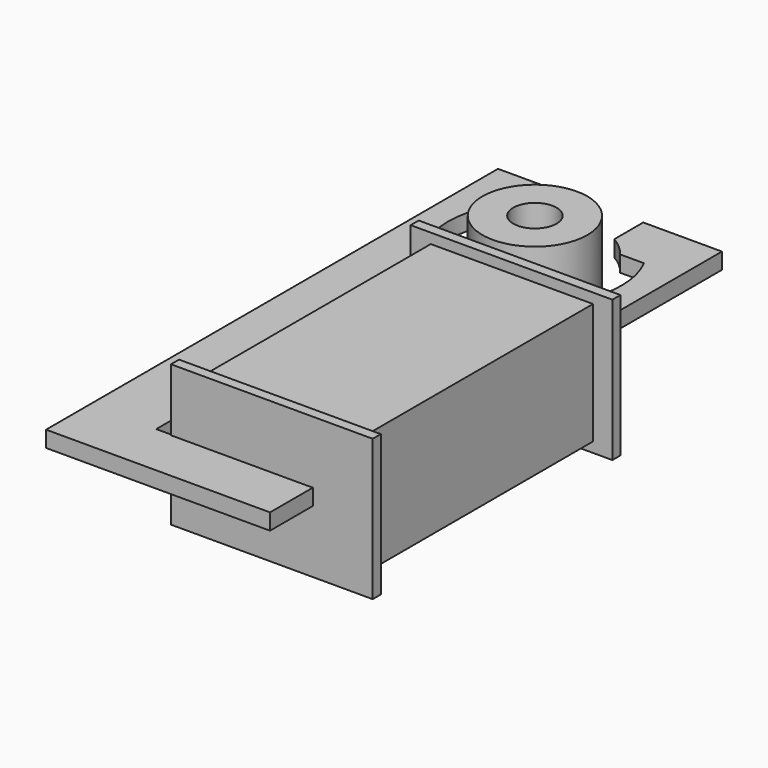
from build123d import *

# Parameters (mm, degrees)
PAD_DEPTH     = 0.4
SKETCH001_W   = 8.04
SKETCH001_H   = 14.4
PAD001_DEPTH  = 3
SKETCH002_W   = 10
SKETCH002_H   = 7
PAD002_DEPTH  = 0.5
SKETCH003_W   = 10
SKETCH003_H   = 7
PAD003_DEPTH  = 0.5
SKETCH004_R   = 2.6
SKETCH004_R_2 = 1.075
PAD004_DEPTH  = 2.05


with BuildPart() as plate:
    # Sketch → Pad (new body, symmetric)
    with BuildSketch(Plane.XY):
        with BuildLine():
            Line((5.55, 4.65), (5.55, -23.35))
            Line((5.55, -23.35), (-5.55, -23.35))
            Line((-5.55, -23.35), (-5.55, 4.65))
            Line((-5.55, 4.65), (-1.65, 4.65))
            Line((-1.65, 4.65), (-1.65, 2.857884))
            ThreePointArc((-1.65, 2.857884), (-2.180056, 2.477369), (-2.624881, 2))
            Line((-3.806573, 2), (-2.624881, 2))
            ThreePointArc((-3.806573, 2), (-4.3, 0), (-3.806573, -2))
            Line((-3.806573, -2), (-2.624881, -2))
            ThreePointArc((-2.624881, -2), (-2.180056, -2.477369), (-1.65, -2.857884))
            Line((-1.65, -2.857884), (-1.65, -7.850596))
            Line((-1.65, -7.850596), (-2.25, -8.610462))
            Line((-2.25, -8.610462), (-2.25, -20.65))
            Line((-2.25, -20.65), (2.25, -20.65))
            Line((2.25, -8.610462), (2.25, -20.65))
            Line((1.668882, -7.874509), (2.25, -8.610462))
            Line((1.668882, -7.874509), (1.668882, -2.846899))
            ThreePointArc((1.668882, -2.846899), (2.188243, -2.47014), (2.624881, -2))
            Line((2.624881, -2), (3.806573, -2))
            ThreePointArc((3.806573, -2), (4.299251, 0.000209), (3.804881, 2))
            Line((2.624881, 2), (3.804881, 2))
            ThreePointArc((2.624881, 2), (2.180056, 2.477369), (1.65, 2.857884))
            Line((1.65, 2.857884), (1.65, 4.65))
            Line((1.65, 4.65), (5.55, 4.65))
        make_face()
    extrude(amount=PAD_DEPTH, both=True)


with BuildPart() as coil:
    # Sketch001 → Pad001 (new body, symmetric)
    with BuildSketch(Plane.XY):
        Rectangle(SKETCH001_W, SKETCH001_H)
    extrude(amount=PAD001_DEPTH, both=True)

    # Sketch002 (on Face3 of Pad001) → Pad002 (join)
    with BuildSketch(Plane.XZ.offset(7.2)):
        with Locations((0.02, 0)):
            Rectangle(SKETCH002_W, SKETCH002_H)
    extrude(amount=PAD002_DEPTH)

    # Sketch003 (on Face11 of Pad002) → Pad003 (join)
    with BuildSketch(Plane(origin=(0, 7.2, 0), x_dir=(-1, 0, 0), z_dir=(0, 1, 0))):
        with Locations((0.02, 0)):
            Rectangle(SKETCH003_W, SKETCH003_H)
    extrude(amount=PAD003_DEPTH)


with BuildPart() as coil_1:
    # Body001 placement: moved
    add(coil.part.moved(Location((3.5, -13, 0))))


with BuildPart() as magnet:
    # Sketch004 → Pad004 (new body, symmetric)
    with BuildSketch(Plane.XY):
        Circle(SKETCH004_R)
        Circle(SKETCH004_R_2, mode=Mode.SUBTRACT)
    extrude(amount=PAD004_DEPTH, both=True)


solid = Compound([plate.part, coil_1.part, magnet.part])
